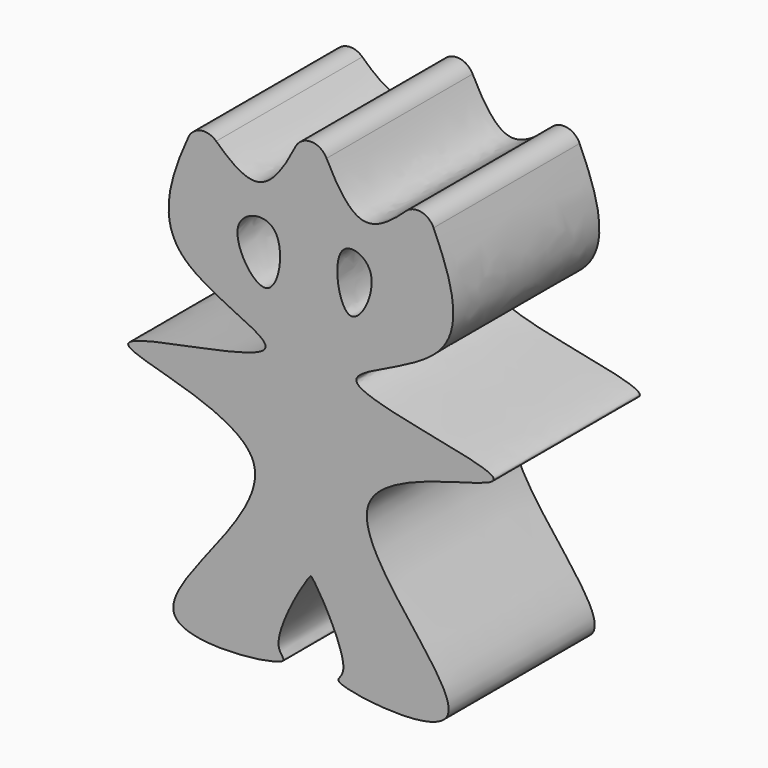
from build123d import *

# Parameters (mm, degrees)
F1_DEPTH = 41.9
F2_R     = 4


with BuildPart() as f1:
    # F0 (on Front) → F1 (new body)
    with BuildSketch(Plane.XZ):
        with BuildLine():
            add(Edge.make_bspline(
                [(0, 50.9558878839), (3.6994576462, 42.6091285793), (10.6410048904, 26.9475290719), (20.9122962496, 37.4709897534), (25.7095620036, 42.3860326409)],
                knots=[0, 0, 0, 0, 0.5329442437, 1, 1, 1, 1], degree=3))
            add(Edge.make_bspline(
                [(0, 50.9558878839), (-3.6994576462, 42.6091285793), (-10.6410048904, 26.9475290719), (-20.9122962496, 37.4709897534), (-25.7095620036, 42.3860326409)],
                knots=[0, 0, 0, 0, 0.5329442437, 1, 1, 1, 1], degree=3))
            add(Edge.make_bspline(
                [(-25.7095620036, 42.3860326409), (-30.9755560926, 31.2150809768), (-40.829317786, 10.3119250435), (9.776093414, -1.1648525783), (-68.8654205317, -9.1741570325), (12.9341847516, -17.0310645289), (-54.3695069964, -68.816235509), (-1.638188835, -62.4540756051), (-10.6219827085, -59.3773088437), (-1.3821873469, -43.5416050212), (-0.1130919915, -42.4614768857)],
                knots=[0, 0, 0, 0, 0.1369394049, 0.256241887, 0.3991674447, 0.541361777, 0.7018161061, 0.8266029533, 0.8694844745, 0.9723005111, 0.9723005111, 0.9723005111, 0.9723005111], degree=3))
            add(Edge.make_bspline(
                [(0, -42.3860326409), (-0.0648247502, -42.3601009226), (-0.0993814622, -42.3911626578), (-0.1130919915, -42.4614768857)],
                knots=[0.9758859807, 0.9758859807, 0.9758859807, 0.9758859807, 0.9833922089, 0.9833922089, 0.9833922089, 0.9833922089], degree=3))
            add(Edge.make_bspline(
                [(0, -42.3860326409), (0.0648247502, -42.3601009226), (0.0993814622, -42.3911626578), (0.1130919915, -42.4614768857)],
                knots=[0.9758859807, 0.9758859807, 0.9758859807, 0.9758859807, 0.9833922089, 0.9833922089, 0.9833922089, 0.9833922089], degree=3))
            add(Edge.make_bspline(
                [(25.7095620036, 42.3860326409), (30.9755560926, 31.2150809768), (40.829317786, 10.3119250435), (-9.776093414, -1.1648525783), (68.8654205317, -9.1741570325), (-12.9341847516, -17.0310645289), (54.3695069964, -68.816235509), (1.638188835, -62.4540756051), (10.6219827085, -59.3773088438), (1.3821873469, -43.5416050212), (0.1130919915, -42.4614768857)],
                knots=[0, 0, 0, 0, 0.1369394049, 0.256241887, 0.3991674447, 0.541361777, 0.7018161061, 0.8266029533, 0.8694844745, 0.9723005111, 0.9723005111, 0.9723005111, 0.9723005111], degree=3))
        make_face()
        with BuildLine():
            add(Edge.make_bspline(
                [(-8.5698533803, 25.0147078186), (-5.8352843315, 21.9451284043), (-8.4654532547, 4.6155186658), (-21.6787932801, 24.7480463419), (-10.7976138907, 27.5153898935), (-8.5698533803, 25.0147078186)],
                knots=[0, 0, 0, 0, 0.3569841608, 0.709177131, 1, 1, 1, 1], degree=3))
        make_face(mode=Mode.SUBTRACT)
        with BuildLine():
            add(Edge.make_bspline(
                [(7.1801473387, 25.709560141), (4.8662393627, 22.8865248533), (7.8785606198, 5.3260622109), (17.5628786042, 24.8202955173), (8.88782181, 27.7929728534), (7.1801473387, 25.709560141)],
                knots=[0, 0, 0, 0, 0.3732806789, 0.7245171836, 1, 1, 1, 1], degree=3))
        make_face(mode=Mode.SUBTRACT)
    extrude(amount=F1_DEPTH)

    # F2
    f2_edges = [f1.edges().sort_by_distance(p)[0] for p in [
        (-25.709562, -20.95, 42.386033),
        (0, -20.95, 50.955888),
        (25.709562, -20.95, 42.386033),
    ]]
    fillet(f2_edges, radius=F2_R)


solid = f1.part
